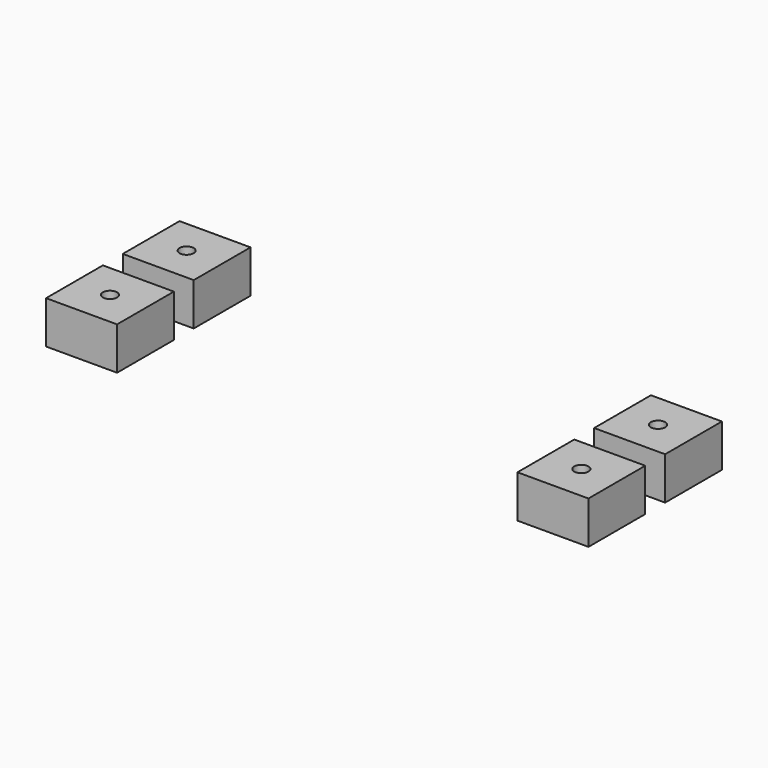
from build123d import *

# Parameters (mm, degrees)
CYLINDER_R     = 1
CYLINDER_DEPTH = 14
BOX003_W       = 10
BOX003_H       = 10
BOX003_DEPTH   = 6
ARRAY_X_COUNT  = 2
ARRAY_X_PITCH  = 66.4
ARRAY_Y_COUNT  = 2
ARRAY_Y_PITCH  = 13.5


with BuildPart() as cylinder:
    # Cylinder → Cylinder (new body)
    with BuildSketch(Plane.XY):
        Circle(CYLINDER_R)
    extrude(amount=CYLINDER_DEPTH)


with BuildPart() as array:
    # Box003 → Box003 (new body)
    with BuildSketch(Plane(origin=(-5, -5, 0), x_dir=(1, 0, 0), z_dir=(0, 0, 1))):
        with Locations((5, 5)):
            Rectangle(BOX003_W, BOX003_H)
    extrude(amount=BOX003_DEPTH)

    # Cut: cut Cylinder
    add(cylinder.part, mode=Mode.SUBTRACT)

    # Array X: Array ×2


with BuildPart() as array_1:
    add(array.part)
    with Locations(*[(i * ARRAY_X_PITCH, 0, 0) for i in range(1, ARRAY_X_COUNT)]):
        add(array.part)

    # Array Y: Array ×2


with BuildPart() as array_2:
    add(array_1.part)
    with Locations(*[(0, i * ARRAY_Y_PITCH, 0) for i in range(1, ARRAY_Y_COUNT)]):
        add(array_1.part)


with BuildPart() as array_3:
    # Array placement: moved
    add(array_2.part.moved(Location((6.3, 6.13, 0))))


solid = array_3.part
